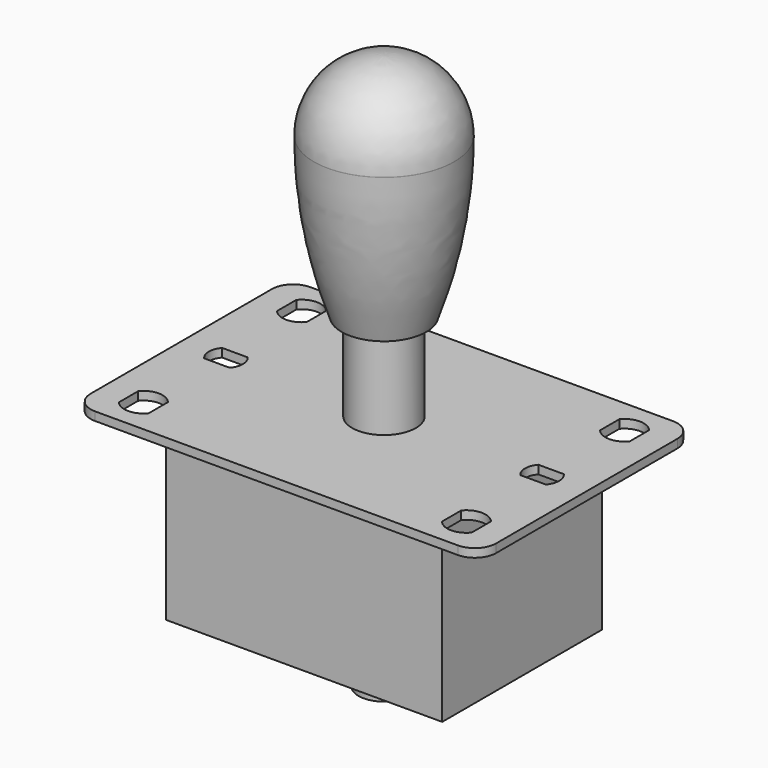
from build123d import *

# Parameters (mm, degrees)
F1_DEPTH = 2
F2_R     = 7.5
F3_DEPTH = 70
F6_W     = 65
F6_H     = 47
F7_DEPTH = 41.2
F8_R     = 6
F9_DEPTH = 12.8


with BuildPart() as f1:
    # F0 (on Top) → F1 (new body)
    with BuildSketch(Plane.XY):
        with BuildLine():
            Line((-42.7, -31.65), (42.7, -31.65))
            ThreePointArc((42.7, -31.65), (46.235534, -30.185534), (47.7, -26.65))
            Line((47.7, -26.65), (47.7, 26.65))
            ThreePointArc((47.7, 26.65), (46.235534, 30.185534), (42.7, 31.65))
            Line((42.7, 31.65), (-42.7, 31.65))
            ThreePointArc((-42.7, 31.65), (-46.235534, 30.185534), (-47.7, 26.65))
            Line((-47.7, 26.65), (-47.7, -26.65))
            ThreePointArc((-47.7, -26.65), (-46.235534, -30.185534), (-42.7, -31.65))
        make_face()
        with BuildLine():
            Line((-41.5, -26.078427), (-41.5, -20.421573))
            ThreePointArc((-41.5, -20.421573), (-38, -18.75), (-34.5, -20.421573))
            Line((-34.5, -20.421573), (-34.5, -26.078427))
            ThreePointArc((-34.5, -26.078427), (-38, -27.75), (-41.5, -26.078427))
        make_face(mode=Mode.SUBTRACT)
        with BuildLine():
            ThreePointArc((34.5, -20.421573), (38, -18.75), (41.5, -20.421573))
            Line((41.5, -20.421573), (41.5, -26.078427))
            ThreePointArc((41.5, -26.078427), (38, -27.75), (34.5, -26.078427))
            Line((34.5, -26.078427), (34.5, -20.421573))
        make_face(mode=Mode.SUBTRACT)
        with BuildLine():
            ThreePointArc((-34.203752, 2.65), (-33.2, 0), (-34.203752, -2.65))
            Line((-34.203752, -2.65), (-40.196248, -2.65))
            ThreePointArc((-40.196248, -2.65), (-41.2, 0), (-40.196248, 2.65))
            Line((-40.196248, 2.65), (-34.203752, 2.65))
        make_face(mode=Mode.SUBTRACT)
        with BuildLine():
            ThreePointArc((-41.5, 26.078427), (-38, 27.75), (-34.5, 26.078427))
            Line((-34.5, 26.078427), (-34.5, 20.421573))
            ThreePointArc((-34.5, 20.421573), (-38, 18.75), (-41.5, 20.421573))
            Line((-41.5, 20.421573), (-41.5, 26.078427))
        make_face(mode=Mode.SUBTRACT)
        with BuildLine():
            ThreePointArc((34.203752, -2.65), (33.2, 0), (34.203752, 2.65))
            Line((34.203752, 2.65), (40.196248, 2.65))
            ThreePointArc((40.196248, 2.65), (41.2, 0), (40.196248, -2.65))
            Line((40.196248, -2.65), (34.203752, -2.65))
        make_face(mode=Mode.SUBTRACT)
        with BuildLine():
            Line((41.5, 26.078427), (41.5, 20.421573))
            ThreePointArc((41.5, 20.421573), (38, 18.75), (34.5, 20.421573))
            Line((34.5, 20.421573), (34.5, 26.078427))
            ThreePointArc((34.5, 26.078427), (38, 27.75), (41.5, 26.078427))
        make_face(mode=Mode.SUBTRACT)
    extrude(amount=-F1_DEPTH)

    # F2 (on face) → F3 (join)
    with BuildSketch(Plane.XY):
        Circle(F2_R)
    extrude(amount=F3_DEPTH)

    # F4 (on Front) → F5 (revolve)
    with BuildSketch(Plane.XZ):
        with BuildLine():
            ThreePointArc((0, 74.590989), (-11.667262, 69.758251), (-16.5, 58.090989))
            ThreePointArc((-16.5, 58.090989), (-16.499956, 58.063064), (-16.499905, 58.03514))
            ThreePointArc((-16.499905, 58.03514), (-14.834915, 39.084766), (-9.962409, 20.695977))
            Line((-9.962409, 20.695977), (0, 20.695977))
            Line((0, 20.695977), (0, 74.590989))
        make_face()
    revolve(axis=Axis((0, 0, 47.643483), (0, 0, -1)))

    # F6 (on face) → F7 (join)
    with BuildSketch(Plane(origin=(0, 0, -2), x_dir=(1, 0, 0), z_dir=(0, 0, -1))):
        Rectangle(F6_W, F6_H)
    extrude(amount=F7_DEPTH)

    # F8 (on face) → F9 (join)
    with BuildSketch(Plane(origin=(0, 0, -43.2), x_dir=(1, 0, 0), z_dir=(0, 0, -1))):
        Circle(F8_R)
    extrude(amount=F9_DEPTH)


solid = f1.part
